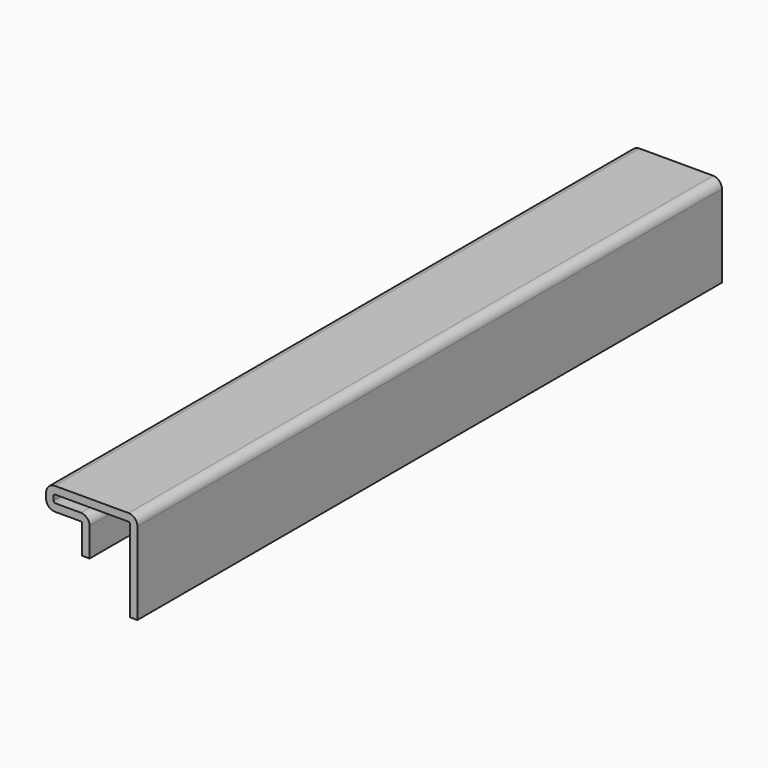
from build123d import *

# Parameters (mm, degrees)
F1_DEPTH = 304.8
F2_R     = 0.508
F3_R     = 3.683


with BuildPart() as f1:
    # F0 (on Front) → F1 (new body)
    with BuildSketch(Plane.XZ):
        Polygon((-3.175, 0), (0, 0), (0, 38.1), (-38.1, 38.1), (-38.1, 28.575), (-23.116228, 28.575), (-23.116228, 16.091942), (-19.941228, 16.091942), (-19.941228, 31.75), (-34.925, 31.75), (-34.925, 34.925), (-3.175, 34.925), align=None)
    extrude(amount=-F1_DEPTH)

    # F2
    f2_edges = [f1.edges().sort_by_distance(p)[0] for p in [
        (-34.925, 152.4, 31.75),
        (-34.925, 152.4, 34.925),
        (-3.175, 152.4, 34.925),
        (-23.116228, 152.4, 28.575),
    ]]
    fillet(f2_edges, radius=F2_R)

    # F3
    f3_edges = [f1.edges().sort_by_distance(p)[0] for p in [
        (-38.1, 152.4, 38.1),
        (0, 152.4, 38.1),
        (-19.941228, 152.4, 31.75),
        (-38.1, 152.4, 28.575),
    ]]
    fillet(f3_edges, radius=F3_R)


solid = f1.part
